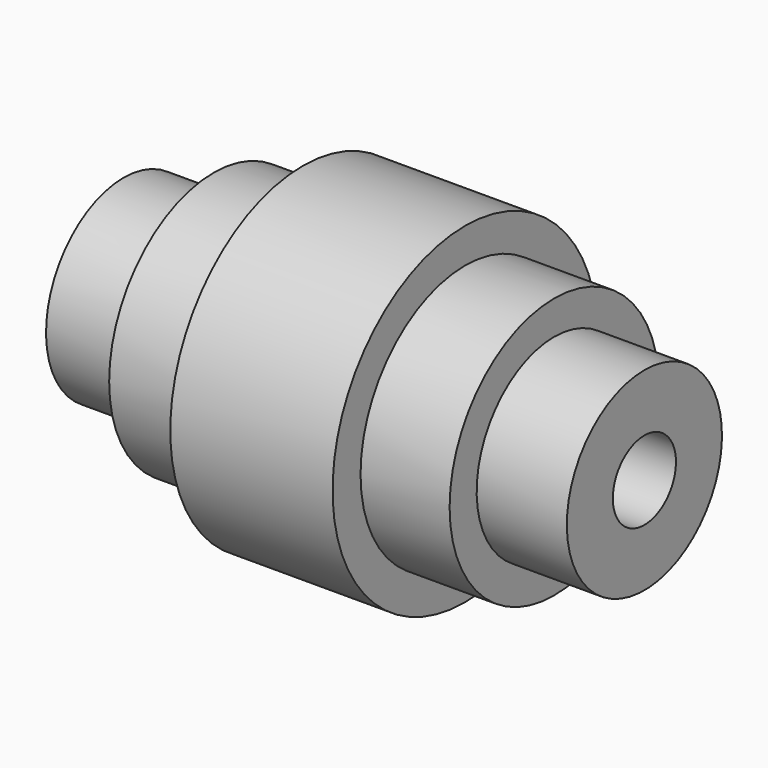
from build123d import *

# Parameters (mm, degrees)
F0_W = 23.291029
F0_H = 14.848028


with BuildPart() as f1:
    # F0 (on Front) → F1 (revolve)
    with BuildSketch(Plane.XZ):
        Polygon((20.961925, 42.797264), (0, 42.797264), (0, 10.189825), (20.961925, 10.189825), (20.961925, 33.771988), align=None)
        Polygon((-43.961816, 10.189825), (-20.961925, 10.189825), (-20.961925, 33.771988), (-43.961816, 33.771988), (-43.961816, 25.037853), align=None)
        with Locations((-55.60733, 17.613839)):
            Rectangle(F0_W, F0_H)
        Polygon((0, 10.189825), (0, 42.797264), (-20.961925, 42.797264), (-20.961925, 33.771988), (-20.961925, 10.189825), align=None)
        Polygon((43.961816, 33.771988), (20.961925, 33.771988), (20.961925, 10.189825), (43.961816, 10.189825), (43.961816, 25.037853), align=None)
        with Locations((55.60733, 17.613839)):
            Rectangle(F0_W, F0_H)
    revolve(axis=Axis((-8.734133, 0, 0), (1, 0, 0)))


solid = f1.part
